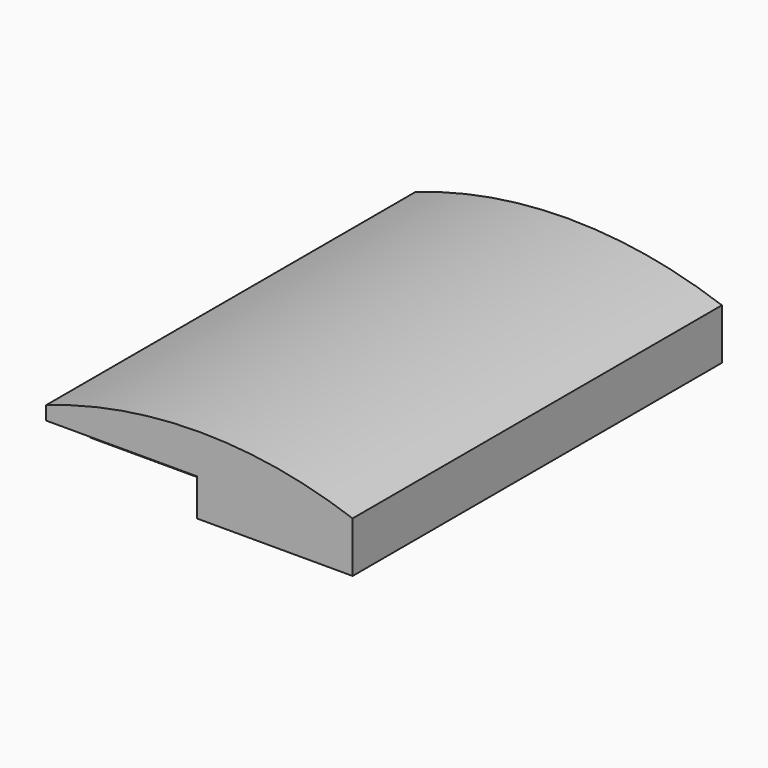
from build123d import *

# Parameters (mm, degrees)
F0_W          = 77.41975
F0_H          = 12.807356
F1_DEPTH      = 62.992
F1_DEPTH_BACK = 53.594
F2_R          = 10.934493
F2_R_2        = 12.378995
F3_DEPTH      = 46.99


with BuildPart() as f1:
    # F0 (on Front) → F1 (new body, two sides)
    with BuildSketch(Plane.XZ) as f1_sk:
        with Locations((0.575613, -6.403678)):
            Rectangle(F0_W, F0_H)
        with BuildLine():
            ThreePointArc((39.285488, 0), (0.575613, 6.651399), (-38.134262, 0))
            Line((-38.134262, 0), (39.285488, 0))
        make_face()
    extrude(amount=F1_DEPTH)
    extrude(f1_sk.sketch, amount=-F1_DEPTH_BACK)

    # F2 (on Right) → F3 (cut)
    with BuildSketch(Plane.YZ):
        with Locations((-60.044046, -13.958579)):
            Circle(F2_R)
        with Locations((47.307502, -14.821997)):
            Circle(F2_R_2)
    extrude(amount=-F3_DEPTH, mode=Mode.SUBTRACT)


solid = f1.part
